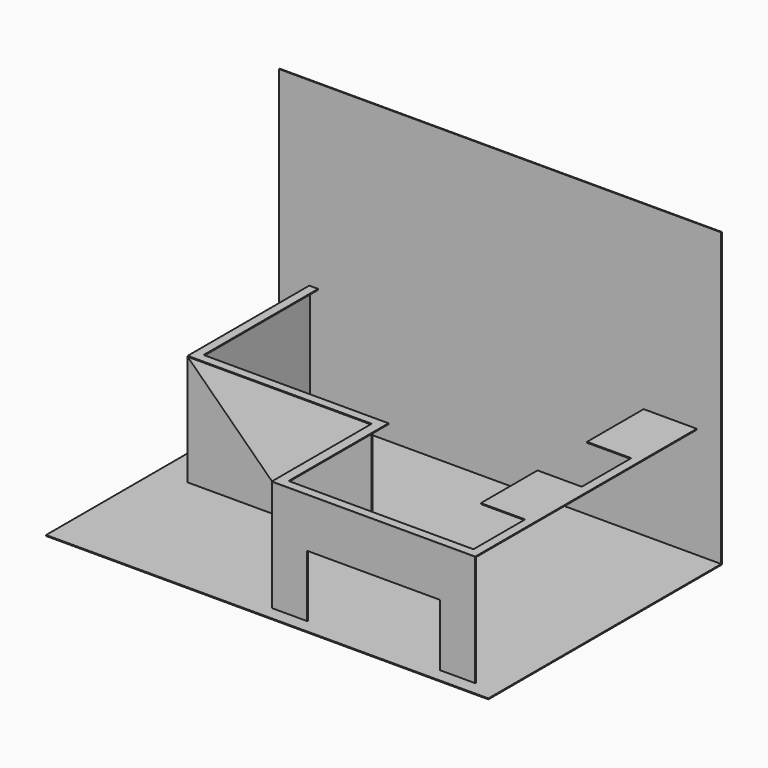
from build123d import *

# Parameters (mm, degrees)
F0_W      = 127
F0_H      = 83.82
F1_DEPTH  = 0.254
F2_W      = 127
F2_H      = 0.254
F3_DEPTH  = 83.82
F4_W      = 58.42
F4_H      = 0.254
F5_DEPTH  = 31.75
F6_W      = 58.42
F6_H      = 79.506515
F7_DEPTH  = 0.254
F8_W      = 43.640425
F8_H      = 0.254
F9_DEPTH  = 52.832
F10_W     = 0.254
F10_H     = 43.386425
F11_DEPTH = 31.75
F13_DEPTH = 5.334
F14_W     = 38.1
F14_H     = 17.78
F15_DEPTH = 25.4


with BuildPart() as f1:
    # F0 (on Top) → F1 (new body)
    with BuildSketch(Plane.XY):
        with Locations((3.401993, 7.607069)):
            Rectangle(F0_W, F0_H)
    extrude(amount=F1_DEPTH)

    # F2 (on face) → F3 (join)
    with BuildSketch(Plane.XY.offset(0.254)):
        with Locations((3.401993, 49.390069)):
            Rectangle(F2_W, F2_H)
    extrude(amount=F3_DEPTH)

    # F4 (on face) → F5 (join)
    with BuildSketch(Plane.XY.offset(0.254)):
        with Locations((30.782759, -30.261287)):
            Rectangle(F4_W, F4_H)
    extrude(amount=F5_DEPTH)

    # F6 (on face) → F7 (join)
    with BuildSketch(Plane.XY.offset(32.004)):
        with Locations((30.782759, 9.36497)):
            Rectangle(F6_W, F6_H)
    extrude(amount=F7_DEPTH)

    # F8 (on face) → F9 (join)
    with BuildSketch(Plane(origin=(1.572759, 0, 0), x_dir=(0, -1, 0), z_dir=(-1, 0, 0))):
        with Locations((-27.298015, 32.131)):
            Rectangle(F8_W, F8_H)
    extrude(amount=F9_DEPTH)

    # F10 (on face) → F11 (join, through all)
    with BuildSketch(Plane(origin=(0, 0, 32.004), x_dir=(1, 0, 0), z_dir=(0, 0, -1))):
        Polygon((1.572759, -5.731803), (1.572759, -5.477803), (-51.259241, -5.477803), (-51.259241, -5.731803), (-51.005241, -5.731803), align=None)
        with Locations((-51.132241, -27.425015)):
            Rectangle(F10_W, F10_H)
    extrude(amount=F11_DEPTH)

    # F12 (on face) → F13 (cut)
    with BuildSketch(Plane.XY.offset(32.258)):
        Polygon((-48.719241, 49.118228), (-48.719241, 8.017803), (4.366759, 8.017803), (4.366759, -27.848287), (57.452759, -27.848287), (57.452759, -9.301772), (44.752759, -9.301772), (44.752759, 11.018228), (57.452759, 11.018228), (57.452759, 28.798228), (44.752759, 28.798228), (44.752759, 49.118228), align=None)
    extrude(amount=-F13_DEPTH, mode=Mode.SUBTRACT)

    # F14 (on face) → F15 (cut)
    with BuildSketch(Plane.XZ.offset(30.388287)):
        with Locations((30.782759, 9.144)):
            Rectangle(F14_W, F14_H)
    extrude(amount=-F15_DEPTH, mode=Mode.SUBTRACT)


solid = f1.part
